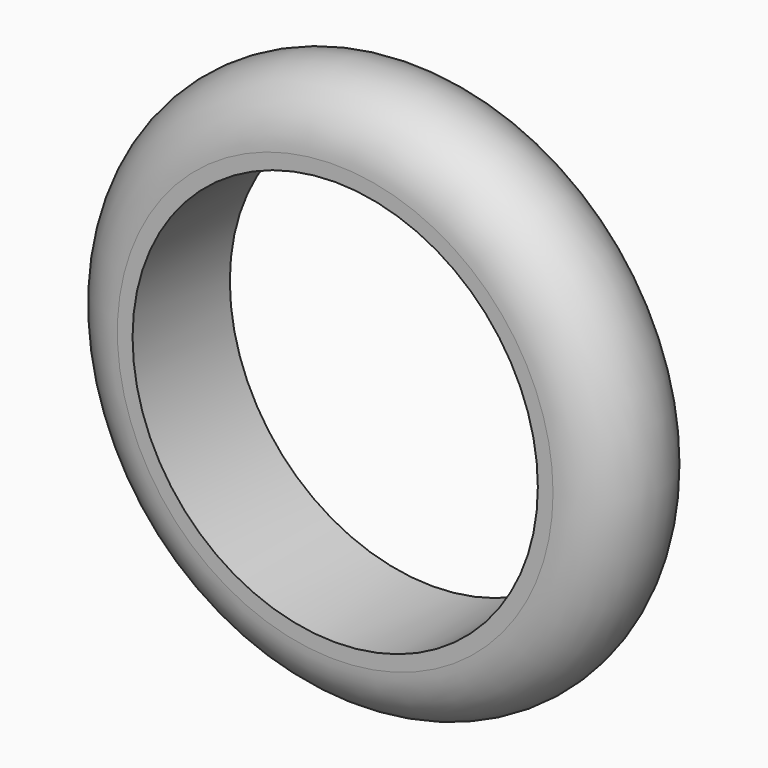
from build123d import *


with BuildPart() as f2:
    # F2: sweep along a path in F0
    with BuildLine(Plane.XZ) as f2_path:
        CenterArc((0, 0), 40, 0, 360)
    # F1 (on Top) → F2 (sweep)
    with BuildSketch(Plane.XY):
        with BuildLine():
            Line((-40, 12), (-43, 12))
            ThreePointArc((-43, 12), (-55, 0), (-43, -12))
            Line((-43, -12), (-40, -12))
            Line((-40, -12), (-40, 12))
        make_face()
    sweep(path=f2_path.line)


solid = f2.part
